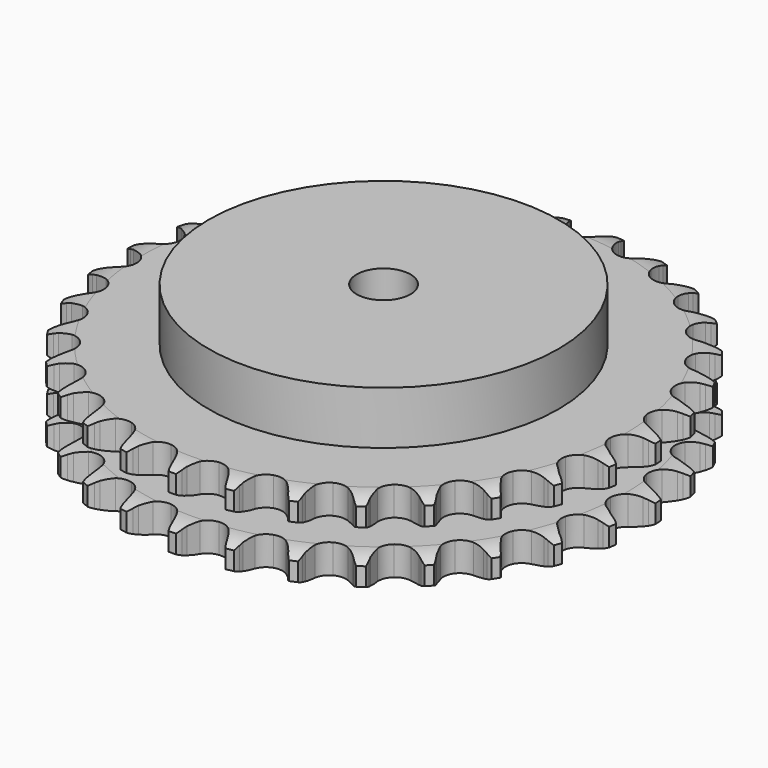
from build123d import *

# Parameters (mm, degrees)
PAD_DEPTH         = 30.3
SKETCH001_R       = 65
PAD001_DEPTH      = 50
SKETCH002_R       = 10
POCKET_DEPTH      = 0.001
POCKET_DEPTH_BACK = 50.001


with BuildPart() as part:
    # Sprocket → Pad (new body)
    with BuildSketch(Plane.XY):
        with BuildLine():
            ThreePointArc((-10.135506, 99.67057), (-8.654127, 97.94511), (-7.608377, 95.925678))
            Line((-7.608377, 95.925678), (-7.019676, 94.371168))
            ThreePointArc((-7.019676, 94.371168), (-6.086662, 92.351046), (-4.878425, 90.482473))
            ThreePointArc((-4.878425, 90.482473), (-2.726343, 88.689528), (0, 88.04675))
            ThreePointArc((0, 88.04675), (2.726343, 88.689528), (4.878425, 90.482473))
            ThreePointArc((4.878425, 90.482473), (6.086662, 92.351046), (7.019676, 94.371168))
            Line((7.019676, 94.371168), (7.608377, 95.925678))
            ThreePointArc((7.608377, 95.925678), (8.654127, 97.94511), (10.135506, 99.67057))
            ThreePointArc((10.135506, 99.67057), (11.239229, 97.68223), (11.857064, 95.493628))
            Line((11.857064, 95.493628), (12.120794, 93.852435))
            ThreePointArc((12.120794, 93.852435), (12.628061, 91.685851), (13.435425, 89.612311))
            ThreePointArc((13.435425, 89.612311), (15.182536, 87.422857), (17.72368, 86.244427))
            ThreePointArc((17.72368, 86.244427), (20.523605, 86.32524), (22.992551, 87.648272))
            Line((22.992551, 87.648272), (25.872759, 91.026334))
            ThreePointArc((25.872759, 91.026334), (26.299018, 91.740163), (26.76233, 92.430518))
            ThreePointArc((26.76233, 92.430518), (28.193182, 94.198104), (29.99157, 95.590046))
            ThreePointArc((29.99157, 95.590046), (30.67245, 93.420229), (30.837076, 91.152059))
            Line((30.837076, 91.152059), (30.765037, 89.491372))
            ThreePointArc((30.765037, 89.491372), (30.82579, 87.267026), (31.199226, 85.073411))
            ThreePointArc((31.199226, 85.073411), (32.469841, 82.577084), (34.721751, 80.911248))
            ThreePointArc((34.721751, 80.911248), (37.480629, 80.426785), (40.16536, 81.22574))
            Line((40.16536, 81.22574), (43.666608, 83.954872))
            ThreePointArc((43.666608, 83.954872), (44.227834, 84.568283), (44.82063, 85.151243))
            ThreePointArc((44.82063, 85.151243), (46.578005, 86.594618), (48.619776, 87.596053))
            ThreePointArc((48.619776, 87.596053), (48.849937, 85.333593), (48.554613, 83.078713))
            Line((48.554613, 83.078713), (48.149755, 81.466522))
            ThreePointArc((48.149755, 81.466522), (47.761507, 79.275479), (47.685728, 77.051595))
            ThreePointArc((47.685728, 77.051595), (48.427826, 74.350595), (50.298309, 72.265553))
            ThreePointArc((50.298309, 72.265553), (52.903191, 71.235649), (55.693794, 71.477817))
            Line((55.693794, 71.477817), (59.672742, 73.446287))
            ThreePointArc((59.672742, 73.446287), (60.345958, 73.934168), (61.043968, 74.385866))
            ThreePointArc((61.043968, 74.385866), (63.055919, 75.445937), (65.257482, 76.015868))
            ThreePointArc((65.257482, 76.015868), (65.027502, 73.753389), (64.284319, 71.604115))
            Line((64.284319, 71.604115), (63.563217, 70.106423))
            ThreePointArc((63.563217, 70.106423), (62.741863, 68.038385), (62.21997, 65.875278))
            ThreePointArc((62.21997, 65.875278), (62.40317, 63.080184), (63.815649, 60.661298))
            ThreePointArc((63.815649, 60.661298), (66.15989, 59.128117), (68.942117, 58.803583))
            Line((68.942117, 58.803583), (73.235866, 59.930802))
            ThreePointArc((73.235866, 59.930802), (73.993511, 60.273179), (74.768159, 60.575122))
            ThreePointArc((74.768159, 60.575122), (76.952316, 61.208491), (79.223539, 61.323584))
            ThreePointArc((79.223539, 61.323584), (78.542833, 59.153713), (77.382218, 57.198036))
            Line((77.382218, 57.198036), (76.374394, 55.876159))
            ThreePointArc((76.374394, 55.876159), (75.15356, 54.015791), (74.20692, 52.002019))
            ThreePointArc((74.20692, 52.002019), (73.823722, 49.227264), (74.720368, 46.573562))
            ThreePointArc((74.720368, 46.573562), (76.707996, 44.599873), (79.367942, 43.721924))
            Line((79.367942, 43.721924), (83.800705, 43.961744))
            ThreePointArc((83.800705, 43.961744), (84.611762, 44.144599), (85.431333, 44.284426))
            ThreePointArc((85.431333, 44.284426), (87.698277, 44.465163), (89.946175, 44.120705))
            ThreePointArc((89.946175, 44.120705), (88.842611, 42.132277), (87.31208, 40.450263))
            Line((87.31208, 40.450263), (86.058794, 39.358318))
            ThreePointArc((86.058794, 39.358318), (84.488461, 37.781784), (83.155829, 35.999792))
            ThreePointArc((83.155829, 35.999792), (82.221921, 33.358973), (82.566027, 30.579099))
            ThreePointArc((82.566027, 30.579099), (84.115667, 28.245705), (86.544434, 26.850285))
            Line((86.544434, 26.850285), (90.934734, 26.192886))
            ThreePointArc((90.934734, 26.192886), (91.765996, 26.208734), (92.596938, 26.18072))
            ThreePointArc((92.596938, 26.18072), (94.853859, 25.901425), (96.986405, 25.11152))
            ThreePointArc((96.986405, 25.11152), (95.505163, 23.385941), (93.667374, 22.046451))
            Line((93.667374, 22.046451), (92.219936, 21.229143))
            ThreePointArc((92.219936, 21.229143), (90.364394, 20.000987), (88.700329, 18.523728))
            ThreePointArc((88.700329, 18.523728), (87.253945, 16.124962), (87.031423, 13.332724))
            ThreePointArc((87.031423, 13.332724), (88.079633, 10.735155), (90.177787, 8.879391))
            Line((90.177787, 8.879391), (94.345884, 7.351689))
            ThreePointArc((94.345884, 7.351689), (95.163321, 7.199881), (95.971613, 7.005173))
            ThreePointArc((95.971613, 7.005173), (98.126114, 6.27728), (100.055999, 5.074266))
            ThreePointArc((100.055999, 5.074266), (98.257722, 3.682181), (96.187916, 2.740055))
            Line((96.187916, 2.740055), (94.605584, 2.230845))
            ThreePointArc((94.605584, 2.230845), (92.540799, 1.401347), (90.613427, 0.289301))
            ThreePointArc((90.613427, 0.289301), (88.713783, -1.769207), (87.933742, -4.459495))
            ThreePointArc((87.933742, -4.459495), (88.437609, -7.214894), (90.119251, -9.455026))
            Line((90.119251, -9.455026), (93.894502, -11.790487))
            ThreePointArc((93.894502, -11.790487), (94.664647, -12.103737), (95.4172, -12.457167))
            ThreePointArc((95.4172, -12.457167), (97.381073, -13.603858), (99.029289, -15.170729))
            ThreePointArc((99.029289, -15.170729), (96.987598, -16.172327), (94.770512, -16.678519))
            Line((94.770512, -16.678519), (93.118068, -16.858785))
            ThreePointArc((93.118068, -16.858785), (90.928572, -17.255665), (88.816801, -17.956969))
            ThreePointArc((88.816801, -17.956969), (86.541668, -19.590945), (85.236044, -22.069141))
            ThreePointArc((85.236044, -22.069141), (85.174938, -24.869565), (86.371222, -27.402353))
            Line((86.371222, -27.402353), (89.599069, -30.44996))
            ThreePointArc((89.599069, -30.44996), (90.290392, -30.911826), (90.956395, -31.409509))
            ThreePointArc((90.956395, -31.409509), (92.649241, -32.928052), (93.948308, -34.794633))
            ThreePointArc((93.948308, -34.794633), (91.746791, -35.364739), (89.473193, -35.414272))
            Line((89.473193, -35.414272), (87.818287, -35.258214))
            ThreePointArc((87.818287, -35.258214), (85.593719, -35.206227), (83.384005, -35.46808))
            ThreePointArc((83.384005, -35.46808), (80.826526, -36.610627), (79.048771, -38.775274))
            ThreePointArc((79.048771, -38.775274), (78.425196, -41.506072), (79.087145, -44.227824))
            Line((79.087145, -44.227824), (81.635439, -47.862807))
            ThreePointArc((81.635439, -47.862807), (82.219637, -48.454381), (82.771824, -49.075942))
            ThreePointArc((82.771824, -49.075942), (84.124337, -50.904168), (85.021073, -52.99404))
            ThreePointArc((85.021073, -52.99404), (82.749859, -53.109314), (80.512831, -52.700162))
            Line((80.512831, -52.700162), (78.923215, -52.214167))
            ThreePointArc((78.923215, -52.214167), (76.754649, -51.715443), (74.537457, -51.527123))
            ThreePointArc((74.537457, -51.527123), (71.802338, -52.131465), (69.625233, -53.893942))
            ThreePointArc((69.625233, -53.893942), (68.464716, -56.443316), (68.565231, -59.242603))
            Line((68.565231, -59.242603), (70.329644, -63.316146))
            ThreePointArc((70.329644, -63.316146), (70.782801, -64.013209), (71.198566, -64.733201))
            ThreePointArc((71.198566, -64.733201), (72.155373, -66.796261), (72.613065, -69.023865))
            ThreePointArc((72.613065, -69.023865), (70.365138, -68.679587), (68.256264, -67.8285))
            Line((68.256264, -67.8285), (66.797018, -67.032467))
            ThreePointArc((66.797018, -67.032467), (64.773235, -66.107422), (62.639338, -65.476639))
            ThreePointArc((62.639338, -65.476639), (59.838553, -65.518035), (57.35123, -66.806186))
            ThreePointArc((57.35123, -66.806186), (55.701283, -69.069764), (55.236248, -71.831983))
            Line((55.236248, -71.831983), (56.144546, -76.177314))
            ThreePointArc((56.144546, -76.177314), (56.448109, -76.951328), (56.710429, -77.740274))
            ThreePointArc((56.710429, -77.740274), (57.23236, -79.953708), (57.232269, -82.227845))
            ThreePointArc((57.232269, -82.227845), (55.099661, -81.43811), (53.205278, -80.179932))
            Line((53.205278, -80.179932), (51.936143, -79.106449))
            ThreePointArc((51.936143, -79.106449), (50.139997, -77.792956), (48.176756, -76.745535))
            ThreePointArc((48.176756, -76.745535), (45.424971, -76.222289), (42.72926, -76.983378))
            ThreePointArc((42.72926, -76.983378), (40.657434, -78.868488), (39.645887, -81.480553))
            Line((39.645887, -81.480553), (39.660883, -85.919774))
            ThreePointArc((39.660883, -85.919774), (39.802425, -86.73905), (39.900561, -87.564652))
            ThreePointArc((39.900561, -87.564652), (39.966247, -89.83784), (39.508378, -92.065407))
            ThreePointArc((39.508378, -92.065407), (37.578396, -90.862547), (35.976061, -89.248787))
            Line((35.976061, -89.248787), (34.948996, -87.941804))
            ThreePointArc((34.948996, -87.941804), (33.454021, -86.293636), (31.741812, -84.872459))
            ThreePointArc((31.741812, -84.872459), (29.151685, -83.805994), (26.35795, -84.00886))
            ThreePointArc((26.35795, -84.00886), (23.949064, -85.438327), (22.432419, -87.7933))
            Line((22.432419, -87.7933), (21.553499, -92.144668))
            ThreePointArc((21.553499, -92.144668), (21.527224, -92.975666), (21.45716, -93.804122))
            ThreePointArc((21.45716, -93.804122), (21.063911, -96.044001), (20.167009, -98.133801))
            ThreePointArc((20.167009, -98.133801), (18.518668, -96.567061), (17.27398, -94.663787))
            Line((17.27398, -94.663787), (16.531033, -93.176811))
            ThreePointArc((16.531033, -93.176811), (15.398434, -91.261445), (14.007355, -89.524694))
            ThreePointArc((14.007355, -89.524694), (11.684925, -87.958671), (8.907542, -87.59501))
            ThreePointArc((8.907542, -87.59501), (6.260216, -88.51031), (4.300565, -90.511779))
            Line((4.300565, -90.511779), (2.563713, -94.597149))
            ThreePointArc((2.563713, -94.597149), (2.370697, -95.405847), (2.135299, -96.203241))
            ThreePointArc((2.135299, -96.203241), (1.299217, -98.318108), (0, -100.184585))
            ThreePointArc((0, -100.184585), (-1.299217, -98.318108), (-2.135299, -96.203241))
            Line((-2.135299, -96.203241), (-2.563713, -94.597149))
            ThreePointArc((-2.563713, -94.597149), (-3.287567, -92.493), (-4.300565, -90.511779))
            ThreePointArc((-4.300565, -90.511779), (-6.260216, -88.51031), (-8.907542, -87.59501))
            ThreePointArc((-8.907542, -87.59501), (-11.684925, -87.958671), (-14.007355, -89.524694))
            Line((-14.007355, -89.524694), (-16.531033, -93.176811))
            ThreePointArc((-16.531033, -93.176811), (-16.882887, -93.930101), (-17.27398, -94.663787))
            ThreePointArc((-17.27398, -94.663787), (-18.518668, -96.567061), (-20.167009, -98.133801))
            ThreePointArc((-20.167009, -98.133801), (-21.063911, -96.044001), (-21.45716, -93.804122))
            Line((-21.45716, -93.804122), (-21.553499, -92.144668))
            ThreePointArc((-21.553499, -92.144668), (-21.838974, -89.937881), (-22.432419, -87.7933))
            ThreePointArc((-22.432419, -87.7933), (-23.949064, -85.438327), (-26.35795, -84.00886))
            ThreePointArc((-26.35795, -84.00886), (-29.151685, -83.805994), (-31.741812, -84.872459))
            Line((-31.741812, -84.872459), (-34.948996, -87.941804))
            ThreePointArc((-34.948996, -87.941804), (-35.445284, -88.608847), (-35.976061, -89.248787))
            ThreePointArc((-35.976061, -89.248787), (-37.578396, -90.862547), (-39.508378, -92.065407))
            ThreePointArc((-39.508378, -92.065407), (-39.966247, -89.83784), (-39.900561, -87.564652))
            Line((-39.900561, -87.564652), (-39.660883, -85.919774))
            ThreePointArc((-39.660883, -85.919774), (-39.496291, -83.700694), (-39.645887, -81.480553))
            ThreePointArc((-39.645887, -81.480553), (-40.657434, -78.868488), (-42.72926, -76.983378))
            ThreePointArc((-42.72926, -76.983378), (-45.424971, -76.222289), (-48.176756, -76.745535))
            Line((-48.176756, -76.745535), (-51.936143, -79.106449))
            ThreePointArc((-51.936143, -79.106449), (-52.556547, -79.659935), (-53.205278, -80.179932))
            ThreePointArc((-53.205278, -80.179932), (-55.099661, -81.43811), (-57.232269, -82.227845))
            ThreePointArc((-57.232269, -82.227845), (-57.23236, -79.953708), (-56.710429, -77.740274))
            Line((-56.710429, -77.740274), (-56.144546, -76.177314))
            ThreePointArc((-56.144546, -76.177314), (-55.536626, -74.036791), (-55.236248, -71.831983))
            ThreePointArc((-55.236248, -71.831983), (-55.701283, -69.069764), (-57.35123, -66.806186))
            ThreePointArc((-57.35123, -66.806186), (-59.838553, -65.518035), (-62.639338, -65.476639))
            Line((-62.639338, -65.476639), (-66.797018, -67.032467))
            ThreePointArc((-66.797018, -67.032467), (-67.516138, -67.449736), (-68.256264, -67.8285))
            ThreePointArc((-68.256264, -67.8285), (-70.365138, -68.679587), (-72.613065, -69.023865))
            ThreePointArc((-72.613065, -69.023865), (-72.155373, -66.796261), (-71.198566, -64.733201))
            Line((-71.198566, -64.733201), (-70.329644, -63.316146))
            ThreePointArc((-70.329644, -63.316146), (-69.303284, -61.341813), (-68.565231, -59.242603))
            ThreePointArc((-68.565231, -59.242603), (-68.464716, -56.443316), (-69.625233, -53.893942))
            ThreePointArc((-69.625233, -53.893942), (-71.802338, -52.131465), (-74.537457, -51.527123))
            Line((-74.537457, -51.527123), (-78.923215, -52.214167))
            ThreePointArc((-78.923215, -52.214167), (-79.711611, -52.478138), (-80.512831, -52.700162))
            ThreePointArc((-80.512831, -52.700162), (-82.749859, -53.109314), (-85.021073, -52.99404))
            ThreePointArc((-85.021073, -52.99404), (-84.124337, -50.904168), (-82.771824, -49.075942))
            Line((-82.771824, -49.075942), (-81.635439, -47.862807))
            ThreePointArc((-81.635439, -47.862807), (-80.232658, -46.135494), (-79.087145, -44.227824))
            ThreePointArc((-79.087145, -44.227824), (-78.425196, -41.506072), (-79.048771, -38.775274))
            ThreePointArc((-79.048771, -38.775274), (-80.826526, -36.610627), (-83.384005, -35.46808))
            Line((-83.384005, -35.46808), (-87.818287, -35.258214))
            ThreePointArc((-87.818287, -35.258214), (-88.643681, -35.358078), (-89.473193, -35.414272))
            ThreePointArc((-89.473193, -35.414272), (-91.746791, -35.364739), (-93.948308, -34.794633))
            ThreePointArc((-93.948308, -34.794633), (-92.649241, -32.928052), (-90.956395, -31.409509))
            Line((-90.956395, -31.409509), (-89.599069, -30.44996))
            ThreePointArc((-89.599069, -30.44996), (-87.877297, -29.040382), (-86.371222, -27.402353))
            ThreePointArc((-86.371222, -27.402353), (-85.174938, -24.869565), (-85.236044, -22.069141))
            ThreePointArc((-85.236044, -22.069141), (-86.541668, -19.590945), (-88.816801, -17.956969))
            Line((-88.816801, -17.956969), (-93.118068, -16.858785))
            ThreePointArc((-93.118068, -16.858785), (-93.946668, -16.790454), (-94.770512, -16.678519))
            ThreePointArc((-94.770512, -16.678519), (-96.987598, -16.172327), (-99.029289, -15.170729))
            ThreePointArc((-99.029289, -15.170729), (-97.381073, -13.603858), (-95.4172, -12.457167))
            Line((-95.4172, -12.457167), (-93.894502, -11.790487))
            ThreePointArc((-93.894502, -11.790487), (-91.92423, -10.756354), (-90.119251, -9.455026))
            ThreePointArc((-90.119251, -9.455026), (-88.437609, -7.214894), (-87.933742, -4.459495))
            ThreePointArc((-87.933742, -4.459495), (-88.713783, -1.769207), (-90.613427, 0.289301))
            Line((-90.613427, 0.289301), (-94.605584, 2.230845))
            ThreePointArc((-94.605584, 2.230845), (-95.403468, 2.464573), (-96.187916, 2.740055))
            ThreePointArc((-96.187916, 2.740055), (-98.257722, 3.682181), (-100.055999, 5.074266))
            ThreePointArc((-100.055999, 5.074266), (-98.126114, 6.27728), (-95.971613, 7.005173))
            Line((-95.971613, 7.005173), (-94.345884, 7.351689))
            ThreePointArc((-94.345884, 7.351689), (-92.207774, 7.968041), (-90.177787, 8.879391))
            ThreePointArc((-90.177787, 8.879391), (-88.079633, 10.735155), (-87.031423, 13.332724))
            ThreePointArc((-87.031423, 13.332724), (-87.253945, 16.124962), (-88.700329, 18.523728))
            Line((-88.700329, 18.523728), (-92.219936, 21.229143))
            ThreePointArc((-92.219936, 21.229143), (-92.954439, 21.6187), (-93.667374, 22.046451))
            ThreePointArc((-93.667374, 22.046451), (-95.505163, 23.385941), (-96.986405, 25.11152))
            ThreePointArc((-96.986405, 25.11152), (-94.853859, 25.901425), (-92.596938, 26.18072))
            Line((-92.596938, 26.18072), (-90.934734, 26.192886))
            ThreePointArc((-90.934734, 26.192886), (-88.71632, 26.366223), (-86.544434, 26.850285))
            ThreePointArc((-86.544434, 26.850285), (-84.115667, 28.245705), (-82.566027, 30.579099))
            ThreePointArc((-82.566027, 30.579099), (-82.221921, 33.358973), (-83.155829, 35.999792))
            Line((-83.155829, 35.999792), (-86.058794, 39.358318))
            ThreePointArc((-86.058794, 39.358318), (-86.699844, 39.887755), (-87.31208, 40.450263))
            ThreePointArc((-87.31208, 40.450263), (-88.842611, 42.132277), (-89.946175, 44.120705))
            ThreePointArc((-89.946175, 44.120705), (-87.698277, 44.465163), (-85.431333, 44.284426))
            Line((-85.431333, 44.284426), (-83.800705, 43.961744))
            ThreePointArc((-83.800705, 43.961744), (-81.59281, 43.684969), (-79.367942, 43.721924))
            ThreePointArc((-79.367942, 43.721924), (-76.707996, 44.599873), (-74.720368, 46.573562))
            ThreePointArc((-74.720368, 46.573562), (-73.823722, 49.227264), (-74.20692, 52.002019))
            Line((-74.20692, 52.002019), (-76.374394, 55.876159))
            ThreePointArc((-76.374394, 55.876159), (-76.895747, 56.5238), (-77.382218, 57.198036))
            ThreePointArc((-77.382218, 57.198036), (-78.542833, 59.153713), (-79.223539, 61.323584))
            ThreePointArc((-79.223539, 61.323584), (-76.952316, 61.208491), (-74.768159, 60.575122))
            Line((-74.768159, 60.575122), (-73.235866, 59.930802))
            ThreePointArc((-73.235866, 59.930802), (-71.128881, 59.215247), (-68.942117, 58.803583))
            ThreePointArc((-68.942117, 58.803583), (-66.15989, 59.128117), (-63.815649, 60.661298))
            ThreePointArc((-63.815649, 60.661298), (-62.40317, 63.080184), (-62.21997, 65.875278))
            Line((-62.21997, 65.875278), (-63.563217, 70.106423))
            ThreePointArc((-63.563217, 70.106423), (-63.943529, 70.845755), (-64.284319, 71.604115))
            ThreePointArc((-64.284319, 71.604115), (-65.027502, 73.753389), (-65.257482, 76.015868))
            ThreePointArc((-65.257482, 76.015868), (-63.055919, 75.445937), (-61.043968, 74.385866))
            Line((-61.043968, 74.385866), (-59.672742, 73.446287))
            ThreePointArc((-59.672742, 73.446287), (-57.752927, 72.321246), (-55.693794, 71.477817))
            ThreePointArc((-55.693794, 71.477817), (-52.903191, 71.235649), (-50.298309, 72.265553))
            ThreePointArc((-50.298309, 72.265553), (-48.427826, 74.350595), (-47.685728, 77.051595))
            Line((-47.685728, 77.051595), (-48.149755, 81.466522))
            ThreePointArc((-48.149755, 81.466522), (-48.373455, 82.267276), (-48.554613, 83.078713))
            ThreePointArc((-48.554613, 83.078713), (-48.849937, 85.333593), (-48.619776, 87.596053))
            ThreePointArc((-48.619776, 87.596053), (-46.578005, 86.594618), (-44.82063, 85.151243))
            Line((-44.82063, 85.151243), (-43.666608, 83.954872))
            ThreePointArc((-43.666608, 83.954872), (-42.012562, 82.466404), (-40.16536, 81.22574))
            ThreePointArc((-40.16536, 81.22574), (-37.480629, 80.426785), (-34.721751, 80.911248))
            ThreePointArc((-34.721751, 80.911248), (-32.469841, 82.577084), (-31.199226, 85.073411))
            Line((-31.199226, 85.073411), (-30.765037, 89.491372))
            ThreePointArc((-30.765037, 89.491372), (-30.822967, 90.320765), (-30.837076, 91.152059))
            ThreePointArc((-30.837076, 91.152059), (-30.67245, 93.420229), (-29.99157, 95.590046))
            ThreePointArc((-29.99157, 95.590046), (-28.193182, 94.198104), (-26.76233, 92.430518))
            Line((-26.76233, 92.430518), (-25.872759, 91.026334))
            ThreePointArc((-25.872759, 91.026334), (-24.552197, 89.235379), (-22.992551, 87.648272))
            ThreePointArc((-22.992551, 87.648272), (-20.523605, 86.32524), (-17.72368, 86.244427))
            ThreePointArc((-17.72368, 86.244427), (-15.182536, 87.422857), (-13.435425, 89.612311))
            Line((-13.435425, 89.612311), (-12.120794, 93.852435))
            ThreePointArc((-12.120794, 93.852435), (-12.010583, 94.676511), (-11.857064, 95.493628))
            ThreePointArc((-11.857064, 95.493628), (-11.239229, 97.68223), (-10.135506, 99.67057))
        make_face()
    extrude(amount=PAD_DEPTH)

    # Sketch → Groove (revolve, cut)
    with BuildSketch(Plane.XZ):
        with BuildLine():
            ThreePointArc((89.664719, 0), (94.023618, 0.506758), (98.15, 2))
            Line((98.15, 2), (98.15, 8.8))
            ThreePointArc((98.15, 8.8), (94.023618, 10.293242), (89.664719, 10.8))
            Line((65, 10.8), (89.664719, 10.8))
            Line((65, 19.5), (65, 10.8))
            Line((89.664719, 19.5), (65, 19.5))
            ThreePointArc((89.664719, 19.5), (94.023618, 20.006758), (98.15, 21.5))
            Line((98.15, 21.5), (98.15, 28.3))
            ThreePointArc((98.15, 28.3), (94.023618, 29.793242), (89.664719, 30.3))
            Line((89.664719, 30.3), (108.15, 30.3))
            Line((108.15, 30.3), (108.15, 0))
            Line((89.664719, 0), (108.15, 0))
        make_face()
    revolve(axis=Axis((0, 0, 0), (0, 0, 1)), mode=Mode.SUBTRACT)

    # Sketch001 → Pad001 (join)
    with BuildSketch(Plane.XY):
        Circle(SKETCH001_R)
    extrude(amount=PAD001_DEPTH)

    # Sketch002 → Pocket (cut, two sides)
    with BuildSketch(Plane.XY) as pocket_sk:
        Circle(SKETCH002_R)
    extrude(amount=-POCKET_DEPTH, mode=Mode.SUBTRACT)
    extrude(pocket_sk.sketch, amount=POCKET_DEPTH_BACK, mode=Mode.SUBTRACT)


solid = part.part
